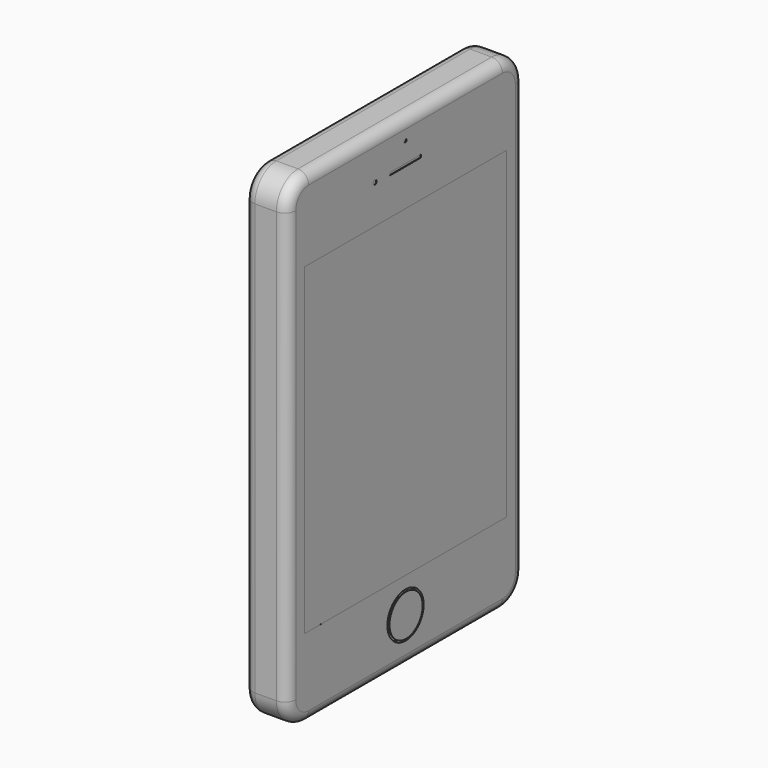
from build123d import *

# Parameters (mm, degrees)
F0_W      = 55
F0_H      = 90
F1_DEPTH  = 4
F2_R      = 5
F3_R      = 2
F4_R      = 4.211377
F5_DEPTH  = 1
F6_R      = 3.85
F7_DEPTH  = 0.1
F8_W      = 7.27267
F8_H      = 0.490911
F9_DEPTH  = 0.1
F10_R     = 0.405738
F11_DEPTH = 0.1
F12_R     = 0.272961
F13_DEPTH = 0.1
F4_W      = 47
F4_H      = 60
F14_DEPTH = 0.0001
F16_R     = 2.64509
F16_R_2   = 0.314137
F16_R_3   = 1.088967
F17_DEPTH = 1
F18_R     = 0.5


with BuildPart() as f1:
    # F0 (on Right) → F1 (new body, symmetric)
    with BuildSketch(Plane.YZ):
        Rectangle(F0_W, F0_H)
    extrude(amount=F1_DEPTH, both=True)

    # F2
    f2_edges = [f1.edges().sort_by_distance(p)[0] for p in [
        (0, -27.5, 45),
        (0, -27.5, -45),
        (0, 27.5, 45),
        (0, 27.5, -45),
    ]]
    fillet(f2_edges, radius=F2_R)

    # F3
    f3_edges = [f1.edges().sort_by_distance(p)[0] for p in [
        (4, 0, -45),
        (-4, 0, 45),
    ]]
    fillet(f3_edges, radius=F3_R)

    # F4 (on face) → F5 (cut)
    with BuildSketch(Plane.YZ.offset(4)):
        with Locations((0, -36.5)):
            Circle(F4_R)
    extrude(amount=-F5_DEPTH, mode=Mode.SUBTRACT)

    # F8 (on face) → F9 (cut)
    with BuildSketch(Plane.YZ.offset(4)):
        with Locations((0, 37.131108)):
            Rectangle(F8_W, F8_H)
    extrude(amount=-F9_DEPTH, mode=Mode.SUBTRACT)

    # F10 (on face) → F11 (cut)
    with BuildSketch(Plane.YZ.offset(4)):
        with Locations((-7.119562, 37.166573)):
            Circle(F10_R)
    extrude(amount=-F11_DEPTH, mode=Mode.SUBTRACT)

    # F12 (on face) → F13 (cut)
    with BuildSketch(Plane.YZ.offset(4)):
        with Locations((0, 41.124657)):
            Circle(F12_R)
    extrude(amount=-F13_DEPTH, mode=Mode.SUBTRACT)

    # F4 (on face) → F14 (cut)
    with BuildSketch(Plane.YZ.offset(4)):
        Rectangle(F4_W, F4_H)
    extrude(amount=-F14_DEPTH, mode=Mode.SUBTRACT)

    # F16 (on face) → F17 (join)
    with BuildSketch(Plane(origin=(-4, 0, 0), x_dir=(0, -1, 0), z_dir=(-1, 0, 0))):
        with Locations((-19.613449, 39.043419)):
            Circle(F16_R)
        with Locations((-15.004834, 39.043419)):
            Circle(F16_R_2)
        with Locations((-12.237698, 39.043419)):
            Circle(F16_R_3)
    extrude(amount=F17_DEPTH)

    # F18
    f18_edges = [f1.edges().sort_by_distance(p)[0] for p in [
        (-5, 22.258539, 39.043419),
    ]]
    fillet(f18_edges, radius=F18_R)


with BuildPart() as f7:
    # F6 (on face) → F7 (new body)
    with BuildSketch(Plane.YZ.offset(4)):
        with Locations((0, -36.5)):
            Circle(F6_R)
    extrude(amount=F7_DEPTH)


solid = Compound([f1.part, f7.part])
